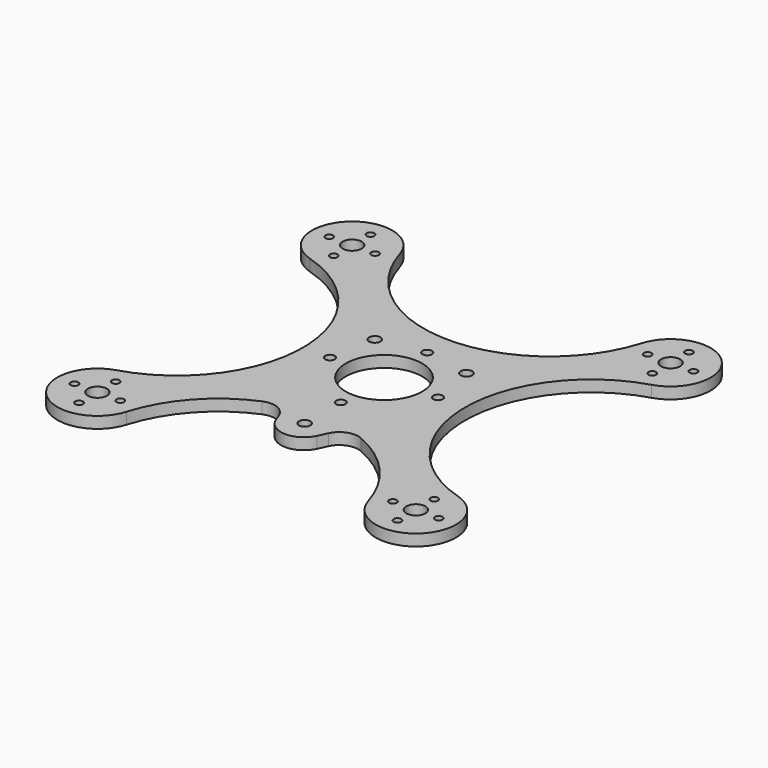
from build123d import *

# Parameters (mm, degrees)
F1_DEPTH = 3
F2_R     = 1.25
F2_R_2   = 2.5
F2_R_3   = 1
F2_R_4   = 10
F2_R_5   = 1.5
F3_DEPTH = 3.001
F4_R     = 5


with BuildPart() as f1:
    # F0 (on Top) → F1 (new body)
    with BuildSketch(Plane.XY):
        with BuildLine():
            ThreePointArc((8.466655, -22.315393), (22.987813, -30.509533), (31.665328, -44.747113))
            ThreePointArc((31.665328, -44.747113), (49.143921, -49.143921), (44.747113, -31.665328))
            ThreePointArc((44.747113, -31.665328), (21.213203, 0), (44.747113, 31.665328))
            ThreePointArc((44.747113, 31.665328), (49.143921, 49.143921), (31.665328, 44.747113))
            ThreePointArc((31.665328, 44.747113), (0, 21.213203), (-31.665328, 44.747113))
            ThreePointArc((-31.665328, 44.747113), (-49.143921, 49.143921), (-44.747113, 31.665328))
            ThreePointArc((-44.747113, 31.665328), (-21.213203, 0), (-44.747113, -31.665328))
            ThreePointArc((-44.747113, -31.665328), (-49.143921, -49.143921), (-31.665328, -44.747113))
            ThreePointArc((-31.665328, -44.747113), (-22.780732, -30.311029), (-7.910816, -22.173328))
            Line((-7.910816, -22.173328), (-5.631352, -28.306246))
            ThreePointArc((-5.631352, -28.306246), (-0.249426, -32.215765), (5.438293, -28.766226))
            Line((5.438293, -28.766226), (8.466655, -22.315393))
        make_face()
    extrude(amount=F1_DEPTH)

    # F2 (on face) → F3 (cut, through all)
    with BuildSketch(Plane.XY.offset(3)):
        with Locations((0, -14.142136)):
            Circle(F2_R)
        with Locations((-14.142136, 0)):
            Circle(F2_R)
        with Locations((0, 14.142136)):
            Circle(F2_R)
        with Locations((14.142136, 0)):
            Circle(F2_R)
        with Locations((-41.7193, -41.7193)):
            Circle(F2_R_2)
        with Locations((41.7193, -41.7193)):
            Circle(F2_R_2)
        with Locations((41.7193, 41.7193)):
            Circle(F2_R_2)
        with Locations((-41.7193, 41.7193)):
            Circle(F2_R_2)
        with Locations((-35.7193, 41.7193)):
            Circle(F2_R_3)
        with Locations((-41.7193, 35.7193)):
            Circle(F2_R_3)
        with Locations((-47.7193, 41.7193)):
            Circle(F2_R_3)
        with Locations((-41.7193, 47.7193)):
            Circle(F2_R_3)
        with Locations((35.7193, 41.7193)):
            Circle(F2_R_3)
        with Locations((47.7193, 41.7193)):
            Circle(F2_R_3)
        with Locations((41.7193, 47.7193)):
            Circle(F2_R_3)
        with Locations((41.7193, 35.7193)):
            Circle(F2_R_3)
        with Locations((41.7193, -35.7193)):
            Circle(F2_R_3)
        with Locations((35.7193, -41.7193)):
            Circle(F2_R_3)
        with Locations((41.7193, -47.7193)):
            Circle(F2_R_3)
        with Locations((47.7193, -41.7193)):
            Circle(F2_R_3)
        with Locations((-47.7193, -41.7193)):
            Circle(F2_R_3)
        with Locations((-41.7193, -47.7193)):
            Circle(F2_R_3)
        with Locations((-35.7193, -41.7193)):
            Circle(F2_R_3)
        with Locations((-41.7193, -35.7193)):
            Circle(F2_R_3)
        Circle(F2_R_4)
        with Locations((-12, 12)):
            Circle(F2_R_5)
        with Locations((12, 12)):
            Circle(F2_R_5)
        with Locations((0, -26)):
            Circle(F2_R_5)
    extrude(amount=-F3_DEPTH, mode=Mode.SUBTRACT)

    # F4
    f4_edges = [f1.edges().sort_by_distance(p)[0] for p in [
        (-7.910816, -22.173328, 1.5),
        (8.466655, -22.315393, 1.5),
    ]]
    fillet(f4_edges, radius=F4_R)


solid = f1.part
